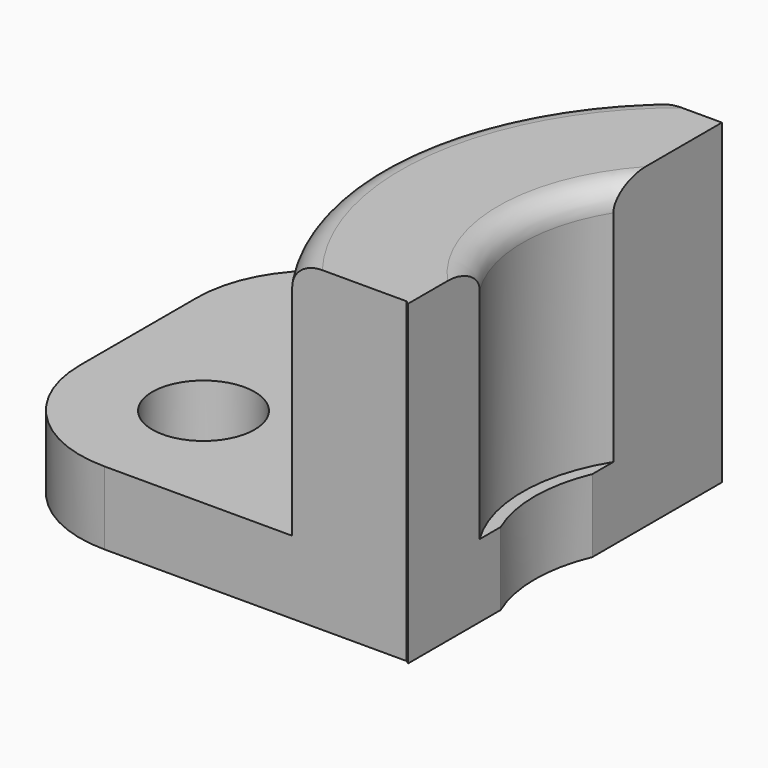
from build123d import *

# Parameters (mm, degrees)
F0_R     = 2.1
F1_DEPTH = 3
F2_R     = 5
F3_R     = 6.5
F4_DEPTH = 10
F5_R     = 1
F6_W     = 17.935833
F6_H     = 36.485908
F7_DEPTH = 13.001


with BuildPart() as f1:
    # F0 (on Top) → F1 (new body)
    with BuildSketch(Plane.XY):
        with BuildLine():
            ThreePointArc((-5.656854, -7), (-8.485281, 3), (0, 9))
            Line((0, 9), (-23.064781, 9))
            Line((-23.064781, 9), (-23.064781, -7))
            Line((-23.064781, -7), (-5.656854, -7))
        make_face()
        with Locations((-18, -2)):
            Circle(F0_R, mode=Mode.SUBTRACT)
        with BuildLine():
            ThreePointArc((0, -6), (-6, 0), (0, 6))
            Line((0, 6), (0, 9))
            ThreePointArc((0, 9), (-8.485281, 3), (-5.656854, -7))
            Line((-5.656854, -7), (0, -7))
            Line((0, -7), (0, -6))
        make_face()
        with BuildLine():
            ThreePointArc((0, 6), (4.242641, 4.242641), (6, 0))
            ThreePointArc((6, 0), (4.242641, -4.242641), (0, -6))
            Line((0, -6), (0, -7))
            Line((0, -7), (-5.656854, -7))
            ThreePointArc((-5.656854, -7), (3.87868, -8.12132), (9, 0))
            ThreePointArc((9, 0), (6.363961, 6.363961), (0, 9))
            Line((0, 9), (0, 6))
        make_face()
    extrude(amount=F1_DEPTH)

    # F2
    f2_edges = [f1.edges().sort_by_distance(p)[0] for p in [
        (-23.064781, 9, 1.5),
        (-23.064781, -7, 1.5),
    ]]
    fillet(f2_edges, radius=F2_R)

    # F3 (on face) → F4 (join)
    with BuildSketch(Plane.XY.offset(3)):
        with BuildLine():
            Line((0, 9), (-8.674676, 9))
            ThreePointArc((-8.674676, 9), (-12.431539, 1.306463), (-10.356158, -7))
            Line((-10.356158, -7), (-5.656854, -7))
            ThreePointArc((-5.656854, -7), (8.485281, -3), (0, 9))
        make_face()
        Circle(F3_R, mode=Mode.SUBTRACT)
    extrude(amount=F4_DEPTH)

    # F5
    f5_edges = [f1.edges().sort_by_distance(p)[0] for p in [
        (-12.431539, 1.306463, 13),
        (-6.5, 0, 13),
    ]]
    fillet(f5_edges, radius=F5_R)

    # F6 (on Top) → F7 (cut, through all)
    with BuildSketch(Plane.XY):
        with Locations((3.447968, 1.978849)):
            Rectangle(F6_W, F6_H)
    extrude(amount=F7_DEPTH, mode=Mode.SUBTRACT)


solid = f1.part
